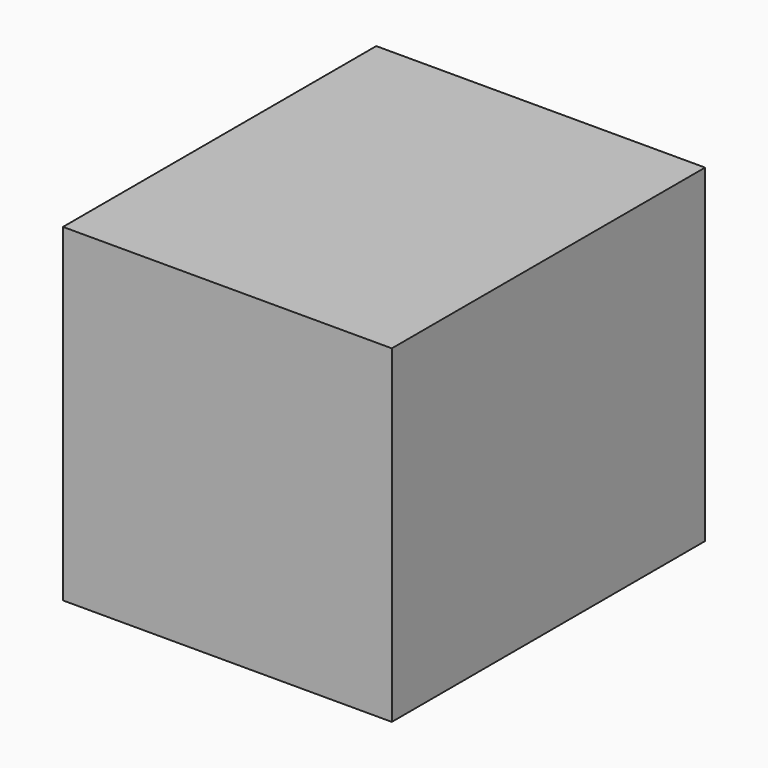
from build123d import *

# Parameters (mm, degrees)
F1_DEPTH = 75.4149332643
F2_DEPTH = 4.9401391298
F3_DEPTH = 75.600117445
F4_DEPTH = 25.4


with BuildPart() as f1:
    # F0 (on Front) → F1 (new body)
    with BuildSketch(Plane.XZ):
        Polygon((76.1401206255, 75.89186728), (-76.165035367, 75.89186728), (-76.1935412884, -76.4331817627), (76.1401206255, -76.4331817627), align=None)
    extrude(amount=-F1_DEPTH)

    # F2 (add): faces of the model
    f2_faces = [f1.faces().sort_by_distance(p)[0] for p in [
        (-0.0195840734, 75.4149332643, -0.2730328228),
        (-0.0195840734, 0, -0.2730328228),
    ]]
    extrude(f2_faces, amount=F2_DEPTH, dir=(0, 1, 0))

    # F3 (add): a face of the model
    f3_faces = [f1.faces().sort_by_distance(p)[0] for p in [
        (-0.0195840734, 0, -0.2730328228),
    ]]
    extrude(f3_faces, amount=F3_DEPTH)

    # F4 (add): a face of the model
    f4_faces = [f1.faces().sort_by_distance(p)[0] for p in [
        (-0.0195840734, 80.355072394, -0.2730328228),
    ]]
    extrude(f4_faces, amount=F4_DEPTH)


solid = f1.part
